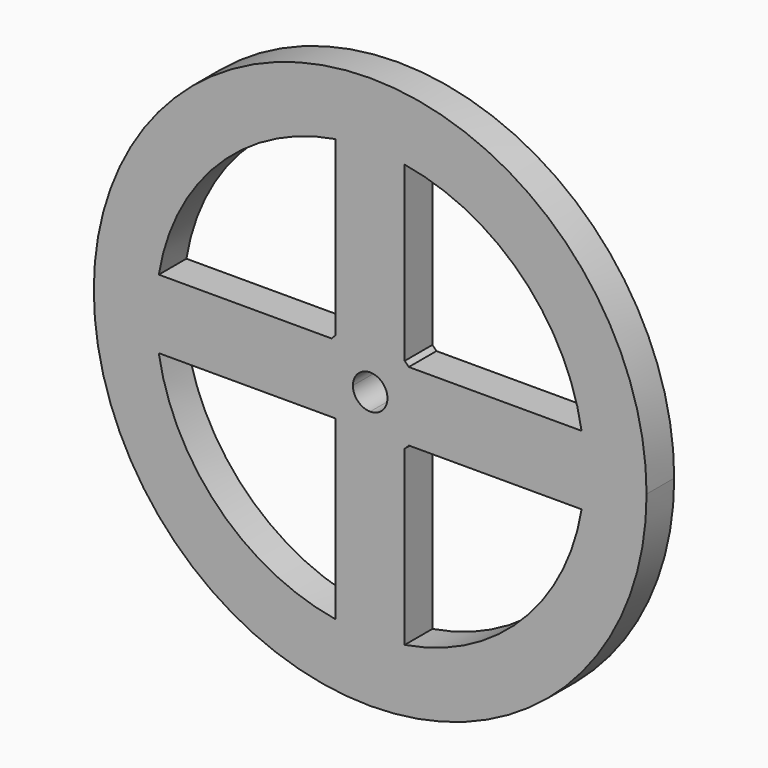
from build123d import *

# Parameters (mm, degrees)
F1_DEPTH = 2.5


with BuildPart() as f1:
    # F0 (on Front) → F1 (new body, symmetric)
    with BuildSketch(Plane.XZ):
        with BuildLine():
            Line((2.5, 0), (40, 0))
            ThreePointArc((40, 0), (0, 40), (-40, 0))
            Line((-40, 0), (-2.5, 0))
            ThreePointArc((-2.5, 0), (-1.767767, 1.767767), (0, 2.5))
            ThreePointArc((0, 2.5), (1.767767, 1.767767), (2.5, 0))
        make_face()
        with BuildLine():
            ThreePointArc((-30.594117, 5), (-21.92031, 21.92031), (-5, 30.594117))
            Line((-5, 30.594117), (-5, 5.59017))
            ThreePointArc((-5, 5.59017), (-5.303301, 5.303301), (-5.59017, 5))
            Line((-5.59017, 5), (-30.594117, 5))
        make_face(mode=Mode.SUBTRACT)
        with BuildLine():
            Line((30.594117, 5), (5.59017, 5))
            ThreePointArc((5.59017, 5), (5.303301, 5.303301), (5, 5.59017))
            Line((5, 5.59017), (5, 30.594117))
            ThreePointArc((5, 30.594117), (21.92031, 21.92031), (30.594117, 5))
        make_face(mode=Mode.SUBTRACT)
        with BuildLine():
            ThreePointArc((0, -40), (28.284271, -28.284271), (40, 0))
            Line((40, 0), (2.5, 0))
            ThreePointArc((2.5, 0), (1.767767, -1.767767), (0, -2.5))
            Line((0, -2.5), (0, -40))
        make_face()
        with BuildLine():
            ThreePointArc((5, -5.59017), (5.303301, -5.303301), (5.59017, -5))
            Line((5.59017, -5), (30.594117, -5))
            ThreePointArc((30.594117, -5), (21.92031, -21.92031), (5, -30.594117))
            Line((5, -30.594117), (5, -5.59017))
        make_face(mode=Mode.SUBTRACT)
        with BuildLine():
            Line((-2.5, 0), (-40, 0))
            ThreePointArc((-40, 0), (-28.284271, -28.284271), (0, -40))
            Line((0, -40), (0, -2.5))
            ThreePointArc((0, -2.5), (-1.767767, -1.767767), (-2.5, 0))
        make_face()
        with BuildLine():
            Line((-5.59017, -5), (-5, -5))
            Line((-5, -5), (-5, -5.59017))
            Line((-5, -5.59017), (-5, -30.594117))
            ThreePointArc((-5, -30.594117), (-21.92031, -21.92031), (-30.594117, -5))
            Line((-30.594117, -5), (-5.59017, -5))
        make_face(mode=Mode.SUBTRACT)
    extrude(amount=F1_DEPTH, both=True)


solid = f1.part
